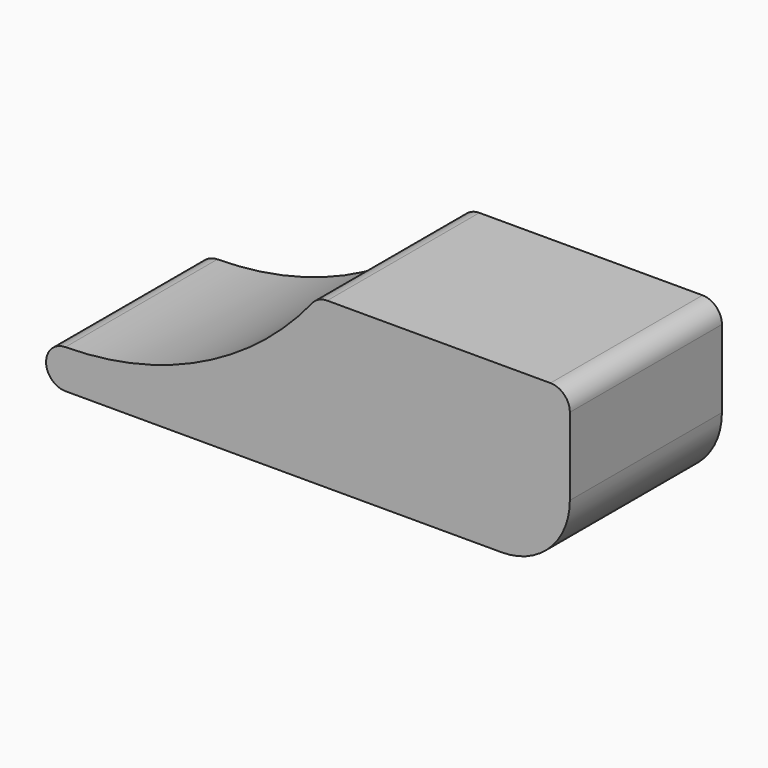
from build123d import *

# Parameters (mm, degrees)
F1_DEPTH = 98


with BuildPart() as f1:
    # F0 (on Front) → F1 (new body)
    with BuildSketch(Plane.XZ):
        with BuildLine():
            Line((250, 85), (134.932741, 85))
            ThreePointArc((134.932741, 85), (130.623152, 84.023715), (127.155039, 81.285488))
            ThreePointArc((127.155039, 81.285488), (70.431504, 36.344714), (-0.067259, 19.999774))
            ThreePointArc((-0.067259, 19.999774), (-9.999943, 9.96637), (0, 0))
            Line((0, 0), (225, 0))
            ThreePointArc((225, 0), (249.748737, 10.251263), (260, 35))
            Line((260, 35), (260, 75))
            ThreePointArc((260, 75), (257.071068, 82.071068), (250, 85))
        make_face()
    extrude(amount=F1_DEPTH)


solid = f1.part
